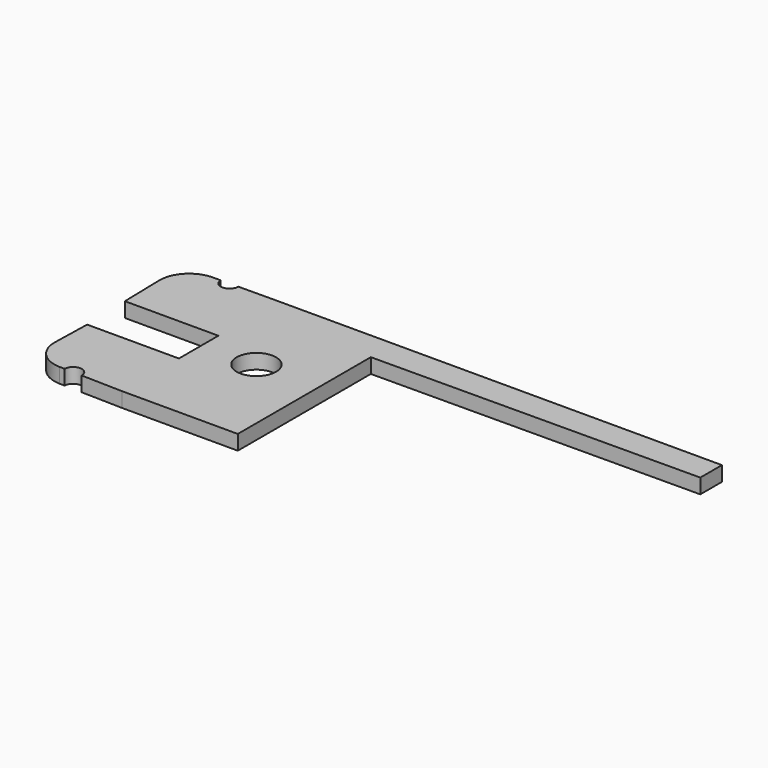
from build123d import *

# Parameters (mm, degrees)
F1_DEPTH = 2.54
F4_D     = 6.7564
F5_R     = 5.08
F6_R     = 5.08
F9_D     = 3
F10_D    = 3


with BuildPart() as f1:
    # F0 (on Top) → F1 (new body)
    with BuildSketch(Plane.XY):
        Polygon((-26.9663626849, 16.0324431312), (-26.6666630804, 3.3142461729), (-10.6108812243, 3.3142461729), (-10.6108812243, -5.1539645243), (-26.3746562004, -5.1539645243), (-26.6666630804, -16.9342223267), (-10.6108812243, -17.3322101165), (9.2456126958, -17.3322101165), (9.2456126958, 11.2262545153), (65.6030206382, 11.518263258), (65.6030206382, 16.1625675214), (-11.1902779489, 16.1625675214), align=None)
    extrude(amount=F1_DEPTH)


with BuildPart() as f1_1:
    # F2: moved
    add(f1.part.moved(Location((-33.782, 26.162, 0))))

    # F4 (through all)
    with Locations(Plane.XY.offset(2.54)):
        with Locations((-35.1868793368, 26.1346530169)):
            Hole(F4_D / 2)

    # F5
    f5_edges = [f1_1.edges().sort_by_distance(p)[0] for p in [
        (-60.448663, 9.227778, 1.27),
    ]]
    fillet(f5_edges, radius=F5_R)

    # F6
    f6_edges = [f1_1.edges().sort_by_distance(p)[0] for p in [
        (-60.748363, 42.194443, 1.27),
    ]]
    fillet(f6_edges, radius=F6_R)

    # F9 (through all)
    with Locations(Plane.XY.offset(2.54)):
        with Locations((-52.7054518143, 42.2607827135)):
            Hole(F9_D / 2)

    # F10 (through all)
    with Locations(Plane.XY.offset(2.54)):
        with Locations((-52.9959336795, 9.0430407773)):
            Hole(F10_D / 2)


solid = f1_1.part
